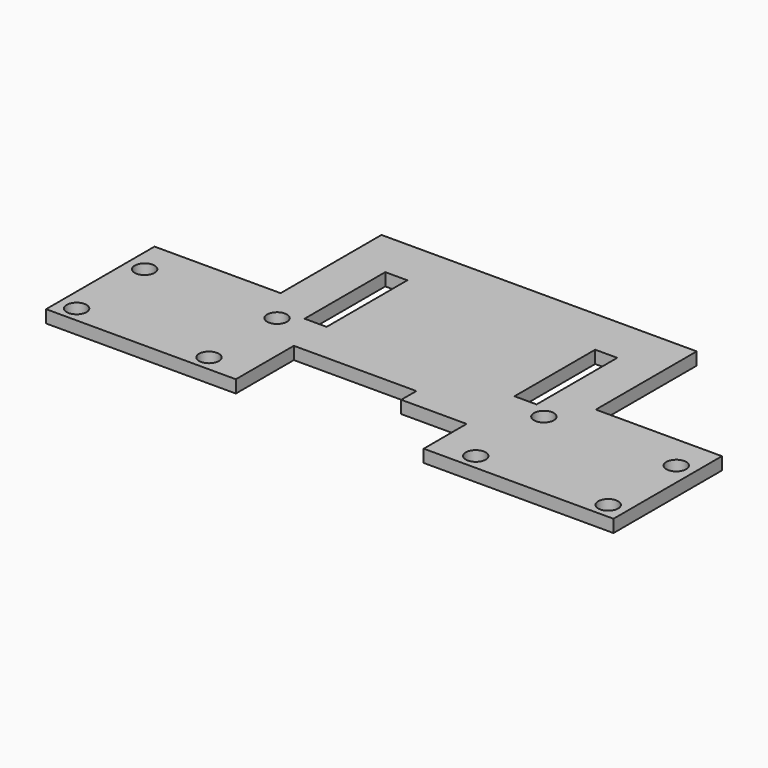
from build123d import *

# Parameters (mm, degrees)
F0_W     = 3.5
F0_H     = 16
F1_DEPTH = 2
F2_D     = 3.15
F2_DEPTH = 15
F2_TIP   = 0.946355475


with BuildPart() as f1:
    # F0 (on Top) → F1 (new body)
    with BuildSketch(Plane.XY):
        Polygon((25, 26.0119763464), (-25, 26.0119763464), (-25, 6.0119763464), (-45, 6.0119763464), (-45, -15.4880236536), (-14.9, -15.4880236536), (-14.9, -6.9880236536), (-14.9, -3.9880236536), (4.5327088445, -3.9880236536), (4.5327088445, -6.9880236536), (14.9, -6.9880236536), (14.9, -15.4880236536), (45, -15.4880236536), (45, 6.0119763464), (25, 6.0119763464), align=None)
        with Locations((-16.65, 10.5119763464)):
            Rectangle(F0_W, F0_H, mode=Mode.SUBTRACT)
        with Locations((16.65, 10.5119763464)):
            Rectangle(F0_W, F0_H, mode=Mode.SUBTRACT)
    extrude(amount=F1_DEPTH)

    # F2
    with Locations(Plane(origin=(0, 0, 0), x_dir=(1, 0, 0), z_dir=(0, 0, -1))):
        with Locations((-42.1624206811, -0.5119763464), (-21.1624206811, -0.5119763464), (-21.1624206811, 12.9880236536), (-42.1624206811, 12.9880236536), (21.1624206811, 12.9880236536), (21.1624206811, -0.5119763464), (42.1624206811, -0.5119763464), (42.1624206811, 12.9880236536)):
            Hole(F2_D / 2, depth=F2_DEPTH)
            with Locations((0, 0, -(F2_DEPTH + F2_TIP / 2))):  # 118° drill point
                Cone(0, F2_D / 2, F2_TIP, mode=Mode.SUBTRACT)


solid = f1.part
